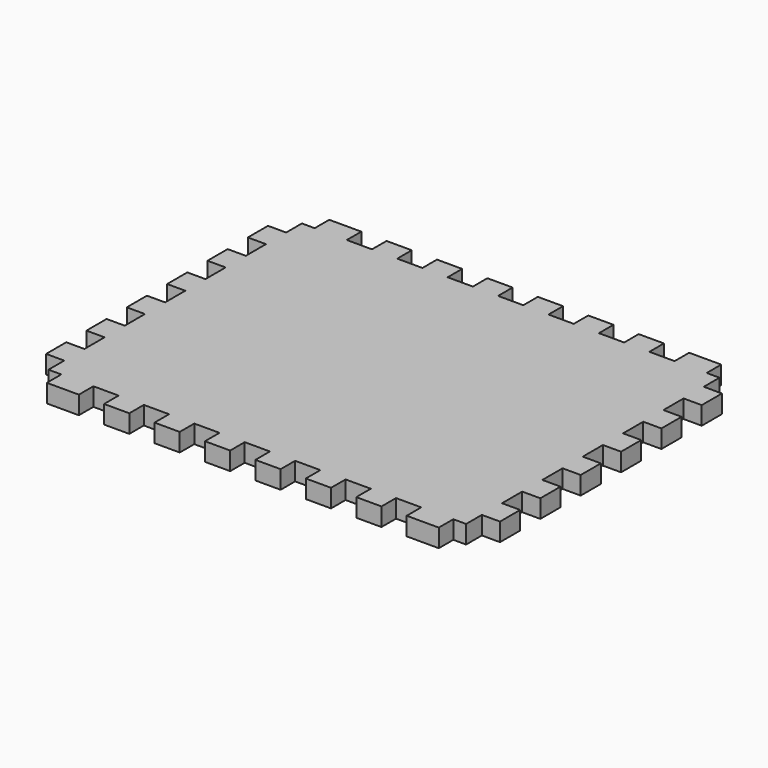
from build123d import *

# Parameters (mm, degrees)
F1_DEPTH = 9.144


with BuildPart() as f1:
    # F0 (on Top) → F1 (new body)
    with BuildSketch(Plane.XY):
        Polygon((31.75, 0), (15.5956, 0), (15.5956, -9.144), (9.144, -9.144), (9.144, -19.05), (0, -19.05), (0, -31.75), (9.144, -31.75), (9.144, -44.45), (0, -44.45), (0, -57.15), (9.144, -57.15), (9.144, -69.85), (0, -69.85), (0, -82.55), (9.144, -82.55), (9.144, -88.9), (9.144, -95.25), (0, -95.25), (0, -107.95), (9.144, -107.95), (9.144, -120.65), (0, -120.65), (0, -133.35), (9.144, -133.35), (9.144, -146.05), (0, -146.05), (0, -158.75), (9.144, -158.75), (9.144, -168.656), (15.5956, -168.656), (15.5956, -177.8), (31.75, -177.8), (31.75, -168.656), (44.45, -168.656), (44.45, -177.8), (57.15, -177.8), (57.15, -168.656), (69.85, -168.656), (69.85, -177.8), (82.55, -177.8), (82.55, -168.656), (95.25, -168.656), (95.25, -177.8), (107.95, -177.8), (107.95, -168.656), (114.3, -168.656), (120.65, -168.656), (120.65, -177.8), (133.35, -177.8), (133.35, -168.656), (146.05, -168.656), (146.05, -177.8), (158.75, -177.8), (158.75, -168.656), (171.45, -168.656), (171.45, -177.8), (184.15, -177.8), (184.15, -168.656), (196.85, -168.656), (196.85, -177.8), (213.0044, -177.8), (213.0044, -168.656), (219.456, -168.656), (219.456, -158.75), (228.6, -158.75), (228.6, -146.05), (219.456, -146.05), (219.456, -133.35), (228.6, -133.35), (228.6, -120.65), (219.456, -120.65), (219.456, -107.95), (228.6, -107.95), (228.6, -95.25), (219.456, -95.25), (219.456, -88.9), (219.456, -82.55), (228.6, -82.55), (228.6, -69.85), (219.456, -69.85), (219.456, -57.15), (228.6, -57.15), (228.6, -44.45), (219.456, -44.45), (219.456, -31.75), (228.6, -31.75), (228.6, -19.05), (219.456, -19.05), (219.456, -9.144), (213.0044, -9.144), (213.0044, 0), (196.85, 0), (196.85, -9.144), (184.15, -9.144), (184.15, 0), (171.45, 0), (171.45, -9.144), (158.75, -9.144), (158.75, 0), (146.05, 0), (146.05, -9.144), (133.35, -9.144), (133.35, 0), (120.65, 0), (120.65, -9.144), (114.3, -9.144), (107.95, -9.144), (107.95, 0), (95.25, 0), (95.25, -9.144), (82.55, -9.144), (82.55, 0), (69.85, 0), (69.85, -9.144), (57.15, -9.144), (57.15, 0), (44.45, 0), (44.45, -9.144), (31.75, -9.144), align=None)
    extrude(amount=F1_DEPTH)


solid = f1.part
